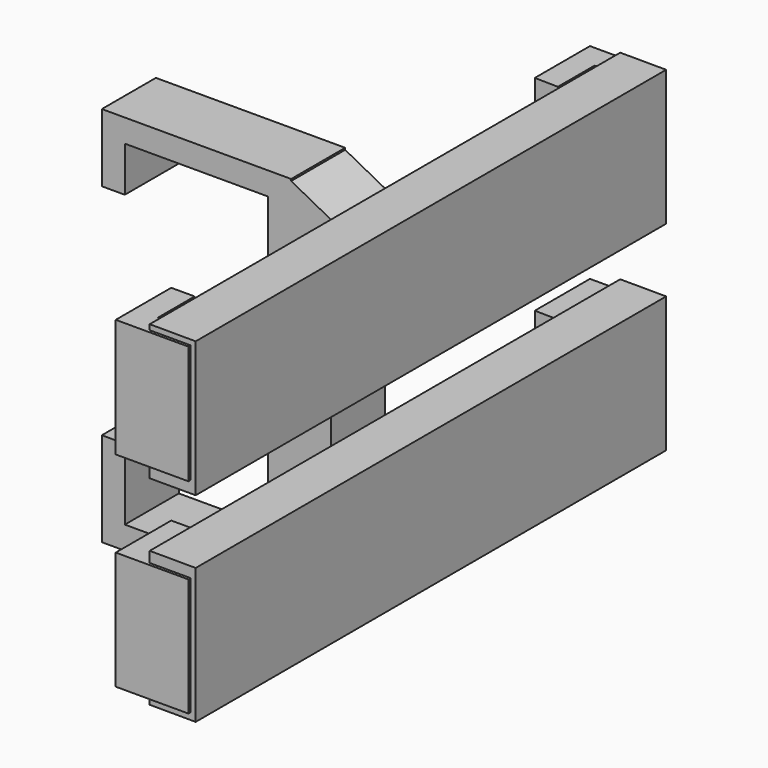
from build123d import *

# Parameters (mm, degrees)
F1_DEPTH = 14.7
F2_DEPTH = 64
F4_START = 8.1
F4_DEPTH = 25.8
F5_START = -10.7
F5_DEPTH = 25.7


with BuildPart() as f1:
    # F0 (on Front) → F1 (new body)
    with BuildSketch(Plane.XZ):
        Polygon((-57.5634558845, -37.8691852093), (-57.5634558845, -42.9755204436), (-48.9047467709, -37.8691852093), align=None)
        Polygon((-57.5634558845, 39.6298208652), (-57.5634558845, 35.0552275777), (-48.9047467709, 35.0552275777), align=None)
        Polygon((-62.5634558845, -37.9755204436), (-93.7634558845, -37.9755204436), (-93.7634558845, -22.4755204436), (-98.7634558845, -22.4755204436), (-98.7634558845, -42.9755204436), (-57.5634558845, -42.9755204436), (-57.5634558845, -37.8691852093), (-57.5634558845, 35.0552275777), (-57.5634558845, 39.6298208652), (-57.5634558845, 40.0244795564), (-98.7634558845, 40.0244795564), (-98.7634558845, 25.2244795564), (-93.7634558845, 25.2244795564), (-93.7634558845, 35.0244795564), (-62.5634558845, 35.0244795564), align=None)
        Polygon((-57.5634558845, 35.0552275777), (-57.5634558845, -37.8691852093), (-48.9047467709, -37.8691852093), (-48.9047467709, -8.3691852093), (-48.9047467709, 5.5244795564), (-48.9047467709, 35.0552275777), align=None)
    extrude(amount=F1_DEPTH)

    # F0 (on Front) → F2 (join, symmetric)
    with BuildSketch(Plane.XZ):
        Polygon((-48.9047467709, -8.3691852093), (-48.9047467709, -37.8691852093), (-38.904794043, -37.8999332305), (-38.904794043, -8.3999332305), align=None)
        Polygon((-38.904794043, 35.0244795564), (-48.9047467709, 35.0552275777), (-48.9047467709, 5.5244795564), (-38.904794043, 5.5244795564), align=None)
    extrude(amount=F2_DEPTH, both=True)

    # F3 (on Top) → F5 (join)
    with BuildSketch(Plane.XY.offset(F5_START)):
        Polygon((-39.9369911849, -64.6160170436), (-40.7134615421, -59.5160170436), (-50.7134615421, -59.5160170436), (-50.7134615421, -49.5160170436), (-55.8134615421, -49.5160163939), (-55.8134615421, -64.6160170436), align=None)
        Polygon((-50.7134615421, 59.3017010927), (-40.7134615421, 59.3017010927), (-42.5235800982, 64.4017010927), (-55.8134615421, 64.4017010927), (-55.8134615421, 49.4017010927), (-50.7134615421, 49.3017010927), align=None)
    extrude(amount=-F5_DEPTH)


with BuildPart() as f4:
    # F3 (on Top) → F4 (new body)
    with BuildSketch(Plane.XY.offset(F4_START)):
        Polygon((-50.7134615421, 59.3017010927), (-40.7134615421, 59.3017010927), (-42.5235800982, 64.4017010927), (-55.8134615421, 64.4017010927), (-55.8134615421, 49.4017010927), (-50.7134615421, 49.3017010927), align=None)
    extrude(amount=F4_DEPTH)


with BuildPart() as f4b:
    # F3 (on Top) → F4, piece 2 (new body)
    with BuildSketch(Plane.XY.offset(F4_START)):
        Polygon((-39.9369911849, -64.6160170436), (-40.7134615421, -59.5160170436), (-50.7134615421, -59.5160170436), (-50.7134615421, -49.5160170436), (-55.8134615421, -49.5160163939), (-55.8134615421, -64.6160170436), align=None)
    extrude(amount=F4_DEPTH)


solid = Compound([f1.part, f4.part, f4b.part])
